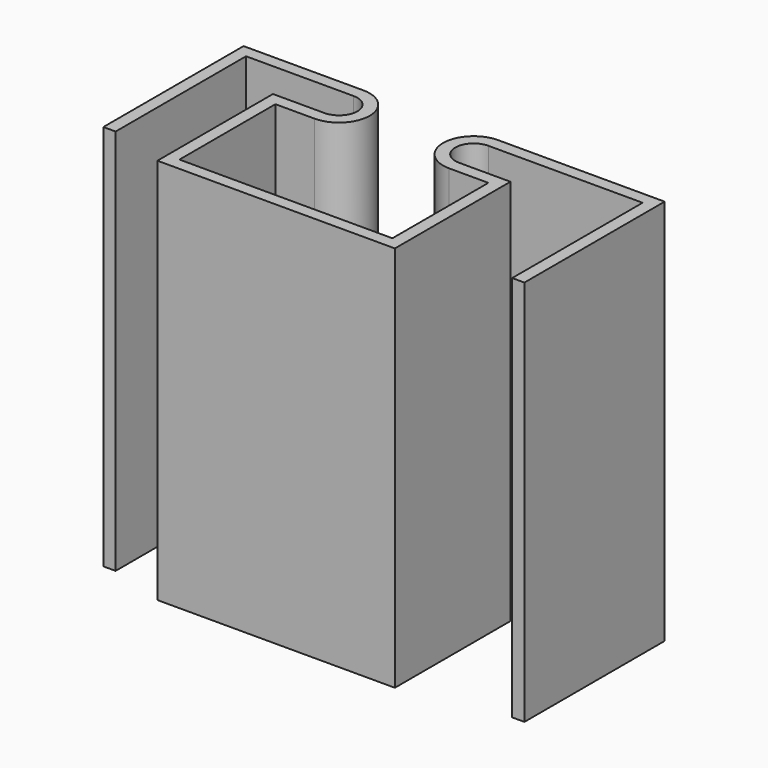
from build123d import *

# Parameters (mm, degrees)
F1_DEPTH = 20.066


with BuildPart() as f1:
    # F0 (on Top) → F1 (new body)
    with BuildSketch(Plane.XY):
        with BuildLine():
            Line((0, 9.0932), (0, 0))
            Line((0, 0), (0.635, 0))
            Line((0.635, 0), (0.635, 8.4582))
            Line((0.635, 8.4582), (6.223, 8.4582))
            ThreePointArc((6.223, 8.4582), (7.1755, 7.5057), (6.223, 6.5532))
            Line((6.223, 6.5532), (3.556, 6.5532))
            Line((3.556, 6.5532), (3.556, -0.9398))
            Line((3.556, -0.9398), (15.875, -0.9398))
            Line((15.875, -0.9398), (15.875, 6.5532))
            Line((15.875, 6.5532), (13.208, 6.5532))
            ThreePointArc((13.208, 6.5532), (12.2555, 7.5057), (13.208, 8.4582))
            Line((13.208, 8.4582), (21.209, 8.4582))
            Line((21.209, 8.4582), (21.209, 0))
            Line((21.209, 0), (21.844, 0))
            Line((21.844, 0), (21.844, 9.0932))
            Line((21.844, 9.0932), (13.208, 9.0932))
            ThreePointArc((13.208, 9.0932), (11.6205, 7.5057), (13.208, 5.9182))
            Line((13.208, 5.9182), (15.24, 5.9182))
            Line((15.24, 5.9182), (15.24, -0.3048))
            Line((15.24, -0.3048), (4.191, -0.3048))
            Line((4.191, -0.3048), (4.191, 5.9182))
            Line((4.191, 5.9182), (6.223, 5.9182))
            ThreePointArc((6.223, 5.9182), (7.8105, 7.5057), (6.223, 9.0932))
            Line((6.223, 9.0932), (0, 9.0932))
        make_face()
    extrude(amount=F1_DEPTH)


solid = f1.part
